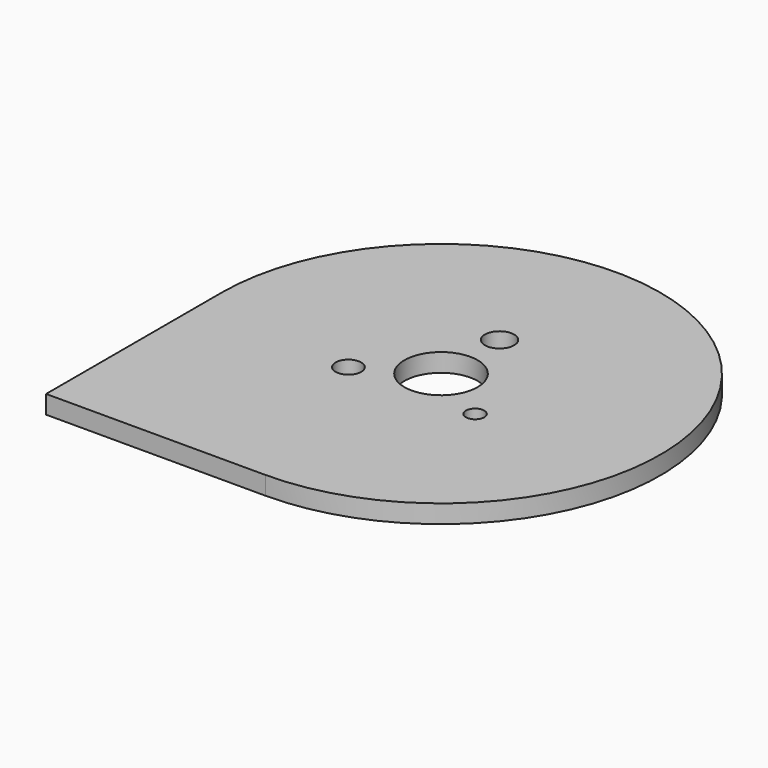
from build123d import *

# Parameters (mm, degrees)
F0_R     = 4.445
F0_R_2   = 3.175
F0_R_3   = 12.7
F0_R_4   = 5.08
F1_DEPTH = 6.35


with BuildPart() as f1:
    # F0 (on Top) → F1 (new body)
    with BuildSketch(Plane.XY):
        with BuildLine():
            Line((-38.1, -38.1), (38.1, -38.1))
            ThreePointArc((38.1, -38.1), (91.981537, 91.981537), (-38.1, 38.1))
            Line((-38.1, 38.1), (-38.1, -38.1))
        make_face()
        with Locations((16.102955, 25.4)):
            Circle(F0_R, mode=Mode.SUBTRACT)
        with Locations((60.097045, 25.4)):
            Circle(F0_R_2, mode=Mode.SUBTRACT)
        with Locations((38.1, 38.1)):
            Circle(F0_R_3, mode=Mode.SUBTRACT)
        with Locations((38.1, 63.5)):
            Circle(F0_R_4, mode=Mode.SUBTRACT)
    extrude(amount=F1_DEPTH)


solid = f1.part
